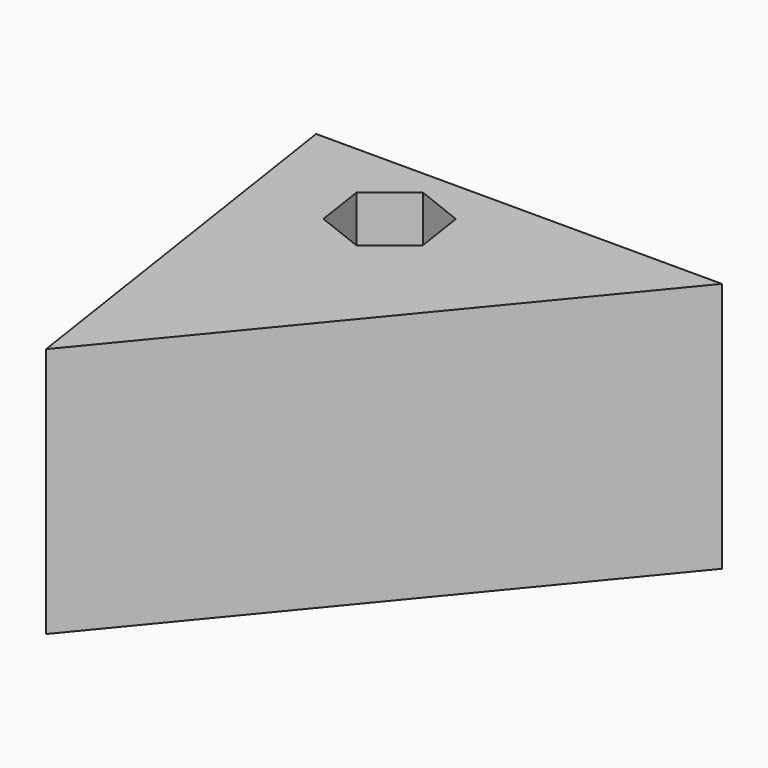
from build123d import *

# Parameters (mm, degrees)
F1_DEPTH = 25.4
F3_DEPTH = 25.4


with BuildPart() as f1:
    # F0 (on Top) → F1 (new body)
    with BuildSketch(Plane.XY):
        Polygon((41.092899, 0), (0, 0), (6.345855, -42.114921), align=None)
    extrude(amount=F1_DEPTH)

    # F2 (on face) → F3 (cut)
    with BuildSketch(Plane.XY.offset(25.4)):
        Polygon((18.505031, -9.646224), (17.724764, -4.467904), (12.850075, -2.554476), (8.755653, -5.819366), (9.535919, -10.997685), (14.410608, -12.911114), align=None)
    extrude(amount=-F3_DEPTH, mode=Mode.SUBTRACT)


solid = f1.part
